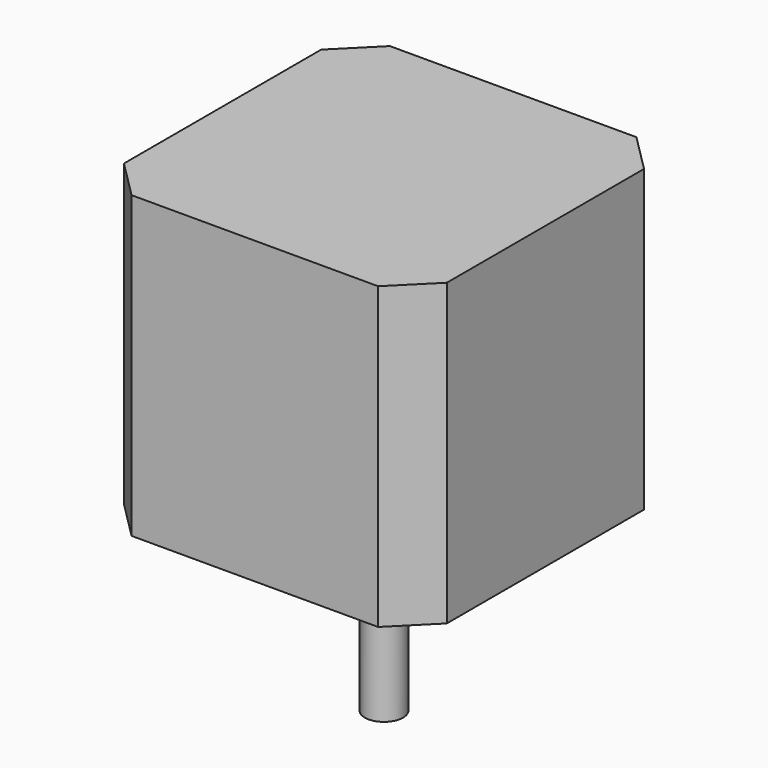
from build123d import *

# Parameters (mm, degrees)
PAD_DEPTH    = 39.3
SKETCH001_R  = 1.5
POCKET_DEPTH = 4.5
SKETCH002_R  = 11
PAD001_DEPTH = 2
SKETCH003_R  = 2.5
PAD002_DEPTH = 23.5


with BuildPart() as part:
    # Sketch → Pad (new body)
    with BuildSketch(Plane.XY):
        Polygon((-16.15, 21.15), (-21.15, 16.15), (-21.15, -16.15), (-16.15, -21.15), (16.15, -21.15), (21.15, -16.15), (21.15, 16.15), (16.15, 21.15), align=None)
    extrude(amount=PAD_DEPTH)

    # Sketch001 → Pocket (cut)
    with BuildSketch(Plane.XY):
        with Locations((-15.5, 15.5)):
            Circle(SKETCH001_R)
        with Locations((-15.5, -15.5)):
            Circle(SKETCH001_R)
        with Locations((15.5, -15.5)):
            Circle(SKETCH001_R)
        with Locations((15.5, 15.5)):
            Circle(SKETCH001_R)
    extrude(amount=POCKET_DEPTH, mode=Mode.SUBTRACT)

    # Sketch002 → Pad001 (join)
    with BuildSketch(Plane.XY):
        Circle(SKETCH002_R)
    extrude(amount=-PAD001_DEPTH)

    # Sketch003 → Pad002 (join)
    with BuildSketch(Plane.XY):
        Circle(SKETCH003_R)
    extrude(amount=-PAD002_DEPTH)


solid = part.part
